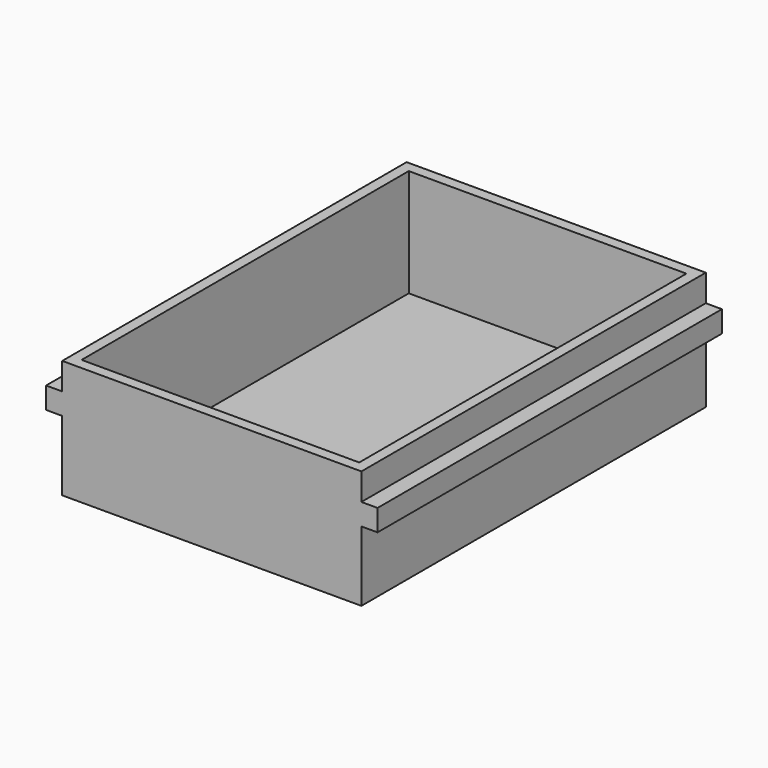
from build123d import *

# Parameters (mm, degrees)
F0_W     = 278
F0_H     = 400
F1_DEPTH = 110
F2_W     = 258
F2_H     = 380
F3_DEPTH = 100
F4_W     = 400
F4_H     = 20
F5_DEPTH = 15
F6_W     = 400
F6_H     = 20
F7_DEPTH = 15


with BuildPart() as f1:
    # F0 (on Top) → F1 (new body)
    with BuildSketch(Plane.XY):
        Rectangle(F0_W, F0_H)
    extrude(amount=F1_DEPTH)

    # F2 (on face) → F3 (cut)
    with BuildSketch(Plane.XY.offset(110)):
        Rectangle(F2_W, F2_H)
    extrude(amount=-F3_DEPTH, mode=Mode.SUBTRACT)

    # F4 (on face) → F5 (join)
    with BuildSketch(Plane(origin=(-139, 0, 0), x_dir=(0, -1, 0), z_dir=(-1, 0, 0))):
        with Locations((0, 75)):
            Rectangle(F4_W, F4_H)
    extrude(amount=F5_DEPTH)

    # F6 (on face) → F7 (join)
    with BuildSketch(Plane.YZ.offset(139)):
        with Locations((0, 75)):
            Rectangle(F6_W, F6_H)
    extrude(amount=F7_DEPTH)


solid = f1.part
